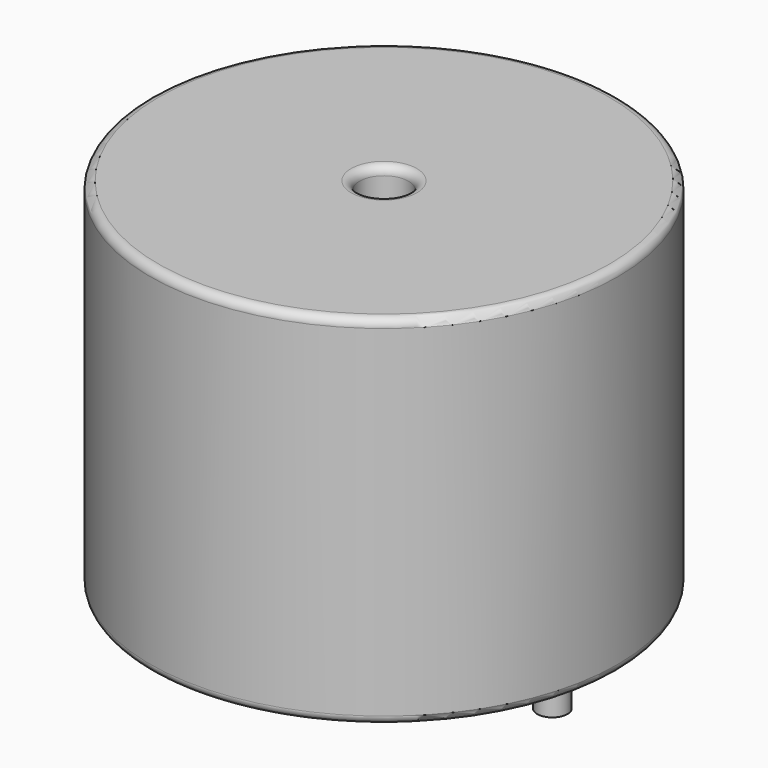
from build123d import *

# Parameters (mm, degrees)
SKETCH001_R       = 0.9
PAD001_DEPTH      = 10.67
PAD001_DEPTH_BACK = 3.5
SKETCH_R          = 13.95
SKETCH_R_2        = 1.46
PAD_DEPTH         = 21.34
FILLET_R          = 0.5


with BuildPart() as pad001:
    # Sketch001 → Pad001 (new body, two sides)
    with BuildSketch(Plane.XY.offset(0.5)) as pad001_sk:
        Circle(SKETCH001_R)
        with Locations((20.07, 0)):
            Circle(SKETCH001_R)
    extrude(amount=PAD001_DEPTH)
    extrude(pad001_sk.sketch, amount=-PAD001_DEPTH_BACK)


with BuildPart() as obj1:
    # Sketch → Pad (new body)
    with BuildSketch(Plane.XY.offset(0.1)):
        with Locations((10.035, 0)):
            Circle(SKETCH_R)
        with Locations((10.035, 0)):
            Circle(SKETCH_R_2, mode=Mode.SUBTRACT)
    extrude(amount=PAD_DEPTH)

    # Fillet
    fillet_edges = [obj1.edges().sort_by_distance(p)[0] for p in [
        (8.575, 0, 21.44),
        (-3.915, 0, 21.44),
        (-3.915, 0, 0.1),
    ]]
    fillet(fillet_edges, radius=FILLET_R)

    # obj1: union Pad001
    add(pad001.part)


solid = obj1.part
